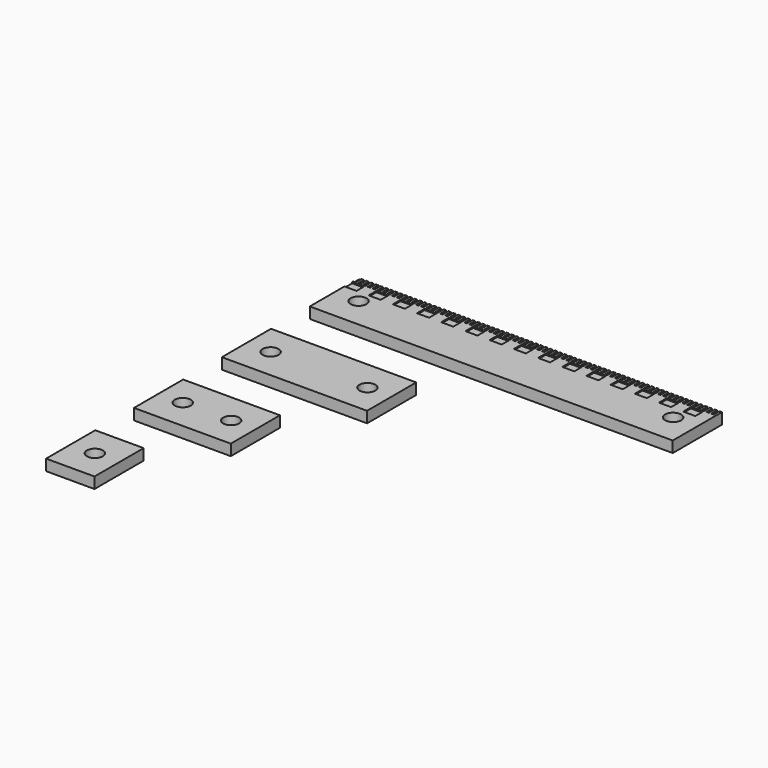
from build123d import *

# Parameters (mm, degrees)
F0_W     = 150
F0_H     = 25.4
F0_R     = 3.302
F0_W_2   = 60
F0_W_3   = 40
F0_W_4   = 20
F1_DEPTH = 4.572
F2_W     = 1
F2_H     = 3
F2_W_2   = 5
F2_H_2   = 4
F3_DEPTH = 0.5


with BuildPart() as f1:
    # F0 (on Top) → F1 (new body)
    with BuildSketch(Plane.XY):
        with Locations((75, 148.9)):
            Rectangle(F0_W, F0_H)
        with Locations((10, 148.9)):
            Circle(F0_R, mode=Mode.SUBTRACT)
        with Locations((140, 148.9)):
            Circle(F0_R, mode=Mode.SUBTRACT)
        with Locations((30, 103.5)):
            Rectangle(F0_W_2, F0_H)
        with Locations((10, 103.5)):
            Circle(F0_R, mode=Mode.SUBTRACT)
        with Locations((50, 103.5)):
            Circle(F0_R, mode=Mode.SUBTRACT)
        with Locations((20, 58.1)):
            Rectangle(F0_W_3, F0_H)
        with Locations((10, 58.1)):
            Circle(F0_R, mode=Mode.SUBTRACT)
        with Locations((30, 58.1)):
            Circle(F0_R, mode=Mode.SUBTRACT)
        with Locations((10, 12.7)):
            Rectangle(F0_W_4, F0_H)
        with Locations((10, 12.7)):
            Circle(F0_R, mode=Mode.SUBTRACT)
    extrude(amount=F1_DEPTH)

    # F2 (on face) → F3 (cut)
    with BuildSketch(Plane.XY.offset(4.572)):
        with Locations((0.5, 160.1)):
            Rectangle(F2_W, F2_H)
        with Locations((2.5, 160.1)):
            Rectangle(F2_W, F2_H)
        with Locations((4.5, 160.1)):
            Rectangle(F2_W, F2_H)
        with Locations((6.5, 160.1)):
            Rectangle(F2_W, F2_H)
        with Locations((8.5, 160.1)):
            Rectangle(F2_W, F2_H)
        with Locations((10.5, 160.1)):
            Rectangle(F2_W, F2_H)
        with Locations((12.5, 160.1)):
            Rectangle(F2_W, F2_H)
        with Locations((14.5, 160.1)):
            Rectangle(F2_W, F2_H)
        with Locations((16.5, 160.1)):
            Rectangle(F2_W, F2_H)
        with Locations((18.5, 160.1)):
            Rectangle(F2_W, F2_H)
        with Locations((20.5, 160.1)):
            Rectangle(F2_W, F2_H)
        with Locations((22.5, 160.1)):
            Rectangle(F2_W, F2_H)
        with Locations((24.5, 160.1)):
            Rectangle(F2_W, F2_H)
        with Locations((26.5, 160.1)):
            Rectangle(F2_W, F2_H)
        with Locations((28.5, 160.1)):
            Rectangle(F2_W, F2_H)
        with Locations((30.5, 160.1)):
            Rectangle(F2_W, F2_H)
        with Locations((32.5, 160.1)):
            Rectangle(F2_W, F2_H)
        with Locations((34.5, 160.1)):
            Rectangle(F2_W, F2_H)
        with Locations((36.5, 160.1)):
            Rectangle(F2_W, F2_H)
        with Locations((38.5, 160.1)):
            Rectangle(F2_W, F2_H)
        with Locations((40.5, 160.1)):
            Rectangle(F2_W, F2_H)
        with Locations((42.5, 160.1)):
            Rectangle(F2_W, F2_H)
        with Locations((44.5, 160.1)):
            Rectangle(F2_W, F2_H)
        with Locations((46.5, 160.1)):
            Rectangle(F2_W, F2_H)
        with Locations((48.5, 160.1)):
            Rectangle(F2_W, F2_H)
        with Locations((50.5, 160.1)):
            Rectangle(F2_W, F2_H)
        with Locations((52.5, 160.1)):
            Rectangle(F2_W, F2_H)
        with Locations((54.5, 160.1)):
            Rectangle(F2_W, F2_H)
        with Locations((56.5, 160.1)):
            Rectangle(F2_W, F2_H)
        with Locations((58.5, 160.1)):
            Rectangle(F2_W, F2_H)
        with Locations((60.5, 160.1)):
            Rectangle(F2_W, F2_H)
        with Locations((62.5, 160.1)):
            Rectangle(F2_W, F2_H)
        with Locations((64.5, 160.1)):
            Rectangle(F2_W, F2_H)
        with Locations((66.5, 160.1)):
            Rectangle(F2_W, F2_H)
        with Locations((68.5, 160.1)):
            Rectangle(F2_W, F2_H)
        with Locations((70.5, 160.1)):
            Rectangle(F2_W, F2_H)
        with Locations((72.5, 160.1)):
            Rectangle(F2_W, F2_H)
        with Locations((74.5, 160.1)):
            Rectangle(F2_W, F2_H)
        with Locations((76.5, 160.1)):
            Rectangle(F2_W, F2_H)
        with Locations((78.5, 160.1)):
            Rectangle(F2_W, F2_H)
        with Locations((80.5, 160.1)):
            Rectangle(F2_W, F2_H)
        with Locations((82.5, 160.1)):
            Rectangle(F2_W, F2_H)
        with Locations((84.5, 160.1)):
            Rectangle(F2_W, F2_H)
        with Locations((86.5, 160.1)):
            Rectangle(F2_W, F2_H)
        with Locations((88.5, 160.1)):
            Rectangle(F2_W, F2_H)
        with Locations((90.5, 160.1)):
            Rectangle(F2_W, F2_H)
        with Locations((92.5, 160.1)):
            Rectangle(F2_W, F2_H)
        with Locations((94.5, 160.1)):
            Rectangle(F2_W, F2_H)
        with Locations((96.5, 160.1)):
            Rectangle(F2_W, F2_H)
        with Locations((98.5, 160.1)):
            Rectangle(F2_W, F2_H)
        with Locations((100.5, 160.1)):
            Rectangle(F2_W, F2_H)
        with Locations((102.5, 160.1)):
            Rectangle(F2_W, F2_H)
        with Locations((104.5, 160.1)):
            Rectangle(F2_W, F2_H)
        with Locations((106.5, 160.1)):
            Rectangle(F2_W, F2_H)
        with Locations((108.5, 160.1)):
            Rectangle(F2_W, F2_H)
        with Locations((110.5, 160.1)):
            Rectangle(F2_W, F2_H)
        with Locations((112.5, 160.1)):
            Rectangle(F2_W, F2_H)
        with Locations((114.5, 160.1)):
            Rectangle(F2_W, F2_H)
        with Locations((116.5, 160.1)):
            Rectangle(F2_W, F2_H)
        with Locations((118.5, 160.1)):
            Rectangle(F2_W, F2_H)
        with Locations((120.5, 160.1)):
            Rectangle(F2_W, F2_H)
        with Locations((122.5, 160.1)):
            Rectangle(F2_W, F2_H)
        with Locations((124.5, 160.1)):
            Rectangle(F2_W, F2_H)
        with Locations((126.5, 160.1)):
            Rectangle(F2_W, F2_H)
        with Locations((128.5, 160.1)):
            Rectangle(F2_W, F2_H)
        with Locations((130.5, 160.1)):
            Rectangle(F2_W, F2_H)
        with Locations((132.5, 160.1)):
            Rectangle(F2_W, F2_H)
        with Locations((134.5, 160.1)):
            Rectangle(F2_W, F2_H)
        with Locations((136.5, 160.1)):
            Rectangle(F2_W, F2_H)
        with Locations((138.5, 160.1)):
            Rectangle(F2_W, F2_H)
        with Locations((140.5, 160.1)):
            Rectangle(F2_W, F2_H)
        with Locations((142.5, 160.1)):
            Rectangle(F2_W, F2_H)
        with Locations((144.5, 160.1)):
            Rectangle(F2_W, F2_H)
        with Locations((146.5, 160.1)):
            Rectangle(F2_W, F2_H)
        with Locations((148.5, 160.1)):
            Rectangle(F2_W, F2_H)
        with Locations((2.5, 156.1)):
            Rectangle(F2_W_2, F2_H_2)
        with Locations((12.5, 156.1)):
            Rectangle(F2_W_2, F2_H_2)
        with Locations((22.5, 156.1)):
            Rectangle(F2_W_2, F2_H_2)
        with Locations((32.5, 156.1)):
            Rectangle(F2_W_2, F2_H_2)
        with Locations((42.5, 156.1)):
            Rectangle(F2_W_2, F2_H_2)
        with Locations((52.5, 156.1)):
            Rectangle(F2_W_2, F2_H_2)
        with Locations((62.5, 156.1)):
            Rectangle(F2_W_2, F2_H_2)
        with Locations((72.5, 156.1)):
            Rectangle(F2_W_2, F2_H_2)
        with Locations((82.5, 156.1)):
            Rectangle(F2_W_2, F2_H_2)
        with Locations((92.5, 156.1)):
            Rectangle(F2_W_2, F2_H_2)
        with Locations((102.5, 156.1)):
            Rectangle(F2_W_2, F2_H_2)
        with Locations((112.5, 156.1)):
            Rectangle(F2_W_2, F2_H_2)
        with Locations((122.5, 156.1)):
            Rectangle(F2_W_2, F2_H_2)
        with Locations((132.5, 156.1)):
            Rectangle(F2_W_2, F2_H_2)
        with Locations((142.5, 156.1)):
            Rectangle(F2_W_2, F2_H_2)
    extrude(amount=-F3_DEPTH, mode=Mode.SUBTRACT)


solid = f1.part
